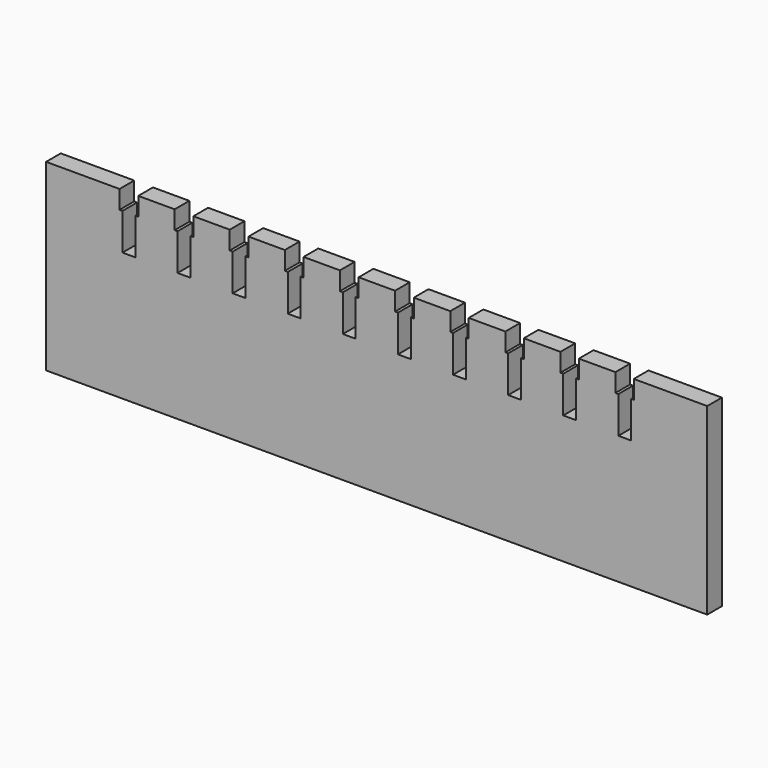
from build123d import *

# Parameters (mm, degrees)
F1_DEPTH = 5


with BuildPart() as f1:
    # F0 (on Front) → F1 (new body)
    with BuildSketch(Plane.XZ):
        Polygon((-77.55, 25), (-97.55, 25), (-97.55, -25), (82.45, -25), (82.45, 25), (62.45, 25), (62.45, 20), (61.75, 20), (61.75, 10), (58.25, 10), (58.25, 20), (57.45, 20), (57.45, 25), (47.5, 25), (47.5, 20), (46.75, 20), (46.75, 10), (43.25, 10), (43.25, 20), (42.5, 20), (42.5, 25), (32.5, 25), (32.5, 20), (31.75, 20), (31.75, 10), (28.25, 10), (28.25, 20), (27.5, 20), (27.5, 25), (17.5, 25), (17.5, 20), (16.75, 20), (16.75, 10), (13.25, 10), (13.25, 20), (12.5, 20), (12.5, 25), (2.55, 25), (2.55, 20), (1.75, 20), (1.75, 10), (-1.75, 10), (-1.75, 20), (-2.55, 20), (-2.55, 25), (-12.45, 25), (-12.45, 20), (-13.25, 20), (-13.25, 10), (-16.75, 10), (-16.75, 20), (-17.55, 20), (-17.55, 25), (-27.45, 25), (-27.45, 20), (-28.25, 20), (-28.25, 10), (-31.75, 10), (-31.75, 20), (-32.55, 20), (-32.55, 25), (-42.45, 25), (-42.45, 20), (-43.25, 20), (-43.25, 10), (-46.75, 10), (-46.75, 20), (-47.55, 20), (-47.55, 25), (-57.45, 25), (-57.45, 20), (-58.25, 20), (-58.25, 10), (-61.75, 10), (-61.75, 20), (-62.55, 20), (-62.55, 25), (-72.45, 25), (-72.45, 20), (-73.25, 20), (-73.25, 10), (-76.75, 10), (-76.75, 20), (-77.55, 20), align=None)
    extrude(amount=F1_DEPTH)


solid = f1.part
